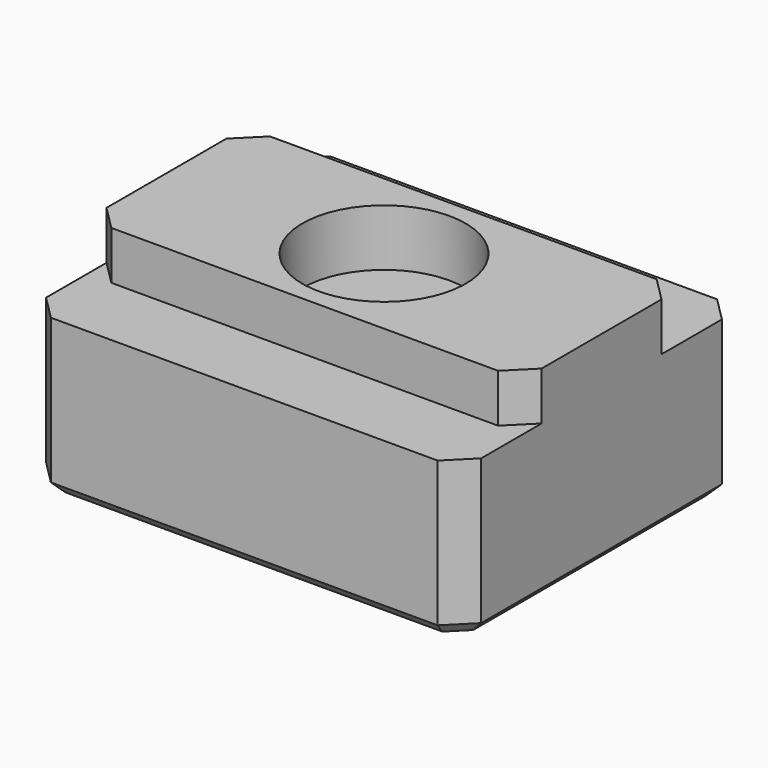
from build123d import *

# Parameters (mm, degrees)
PAD002_DEPTH    = 9
SKETCH009_R     = 3.3782
POCKET004_DEPTH = 8.501
POCKET005_DEPTH = 5.95
SKETCH011_R     = 3.3782
PAD003_DEPTH    = 0.2
CHAMFER_SIZE    = 1
CHAMFER001_SIZE = 1
CHAMFER002_SIZE = 1
CHAMFER003_SIZE = 0.5


with BuildPart() as part:
    # Sketch008 (on DatumPlane) → Pad002 (new body, symmetric)
    with BuildSketch(Plane.YZ.offset(140)):
        Polygon((62.525, 5.5), (70.725, 5.5), (70.725, 3.5), (73.85, 3.5), (73.85, -3), (59.4, -3), (59.4, 3.5), (62.525, 3.5), align=None)
    extrude(amount=PAD002_DEPTH, both=True)

    # Sketch009 (on Face5 of Pad002) → Pocket004 (cut, through all)
    with BuildSketch(Plane(origin=(140, 0, -3), x_dir=(0, 1, 0), z_dir=(0, 0, -1))):
        with Locations((66.625, 0)):
            Circle(SKETCH009_R)
    extrude(amount=-POCKET004_DEPTH, mode=Mode.SUBTRACT)

    # Sketch010 (on Face10 of Pocket004) → Pocket005 (cut)
    with BuildSketch(Plane(origin=(140, 0, -3), x_dir=(0, 1, 0), z_dir=(0, 0, -1))):
        Polygon((72.175, 3.204294), (66.625, 6.408588), (61.075, 3.204294), (61.075, -3.204294), (66.625, -6.408588), (72.175, -3.204294), align=None)
    extrude(amount=-POCKET005_DEPTH, mode=Mode.SUBTRACT)

    # Sketch011 (on Face12 of Pocket005) → Pad003 (join)
    with BuildSketch(Plane(origin=(140, 0, 2.95), x_dir=(0, 1, 0), z_dir=(0, 0, -1))):
        with Locations((66.625, 0)):
            Circle(SKETCH011_R)
    extrude(amount=-PAD003_DEPTH)

    # Chamfer
    chamfer_edges = [part.edges().sort_by_distance(p)[0] for p in [
        (144.806441, 69.4, -3),
        (144.806441, 63.85, -3),
        (140, 61.075, -3),
        (135.193559, 63.85, -3),
        (135.193559, 69.4, -3),
        (140, 72.175, -3),
    ]]
    chamfer(chamfer_edges, length=CHAMFER_SIZE)

    # Chamfer001
    chamfer001_edges = [part.edges().sort_by_distance(p)[0] for p in [
        (149, 59.4, 0.25),
        (149, 73.85, 0.25),
        (131, 73.85, 0.25),
        (131, 59.4, 0.25),
    ]]
    chamfer(chamfer001_edges, length=CHAMFER001_SIZE)

    # Chamfer002
    chamfer002_edges = [part.edges().sort_by_distance(p)[0] for p in [
        (131, 62.525, 4.5),
        (131, 70.725, 4.5),
        (149, 62.525, 4.5),
        (149, 70.725, 4.5),
    ]]
    chamfer(chamfer002_edges, length=CHAMFER002_SIZE)

    # Chamfer003
    chamfer003_edges = [part.edges().sort_by_distance(p)[0] for p in [
        (140, 59.4, -3),
        (148.5, 59.9, -3),
        (149, 66.625, -3),
        (148.5, 73.35, -3),
        (140, 73.85, -3),
        (131.5, 73.35, -3),
        (131, 66.625, -3),
        (131.5, 59.9, -3),
    ]]
    chamfer(chamfer003_edges, length=CHAMFER003_SIZE)


solid = part.part
